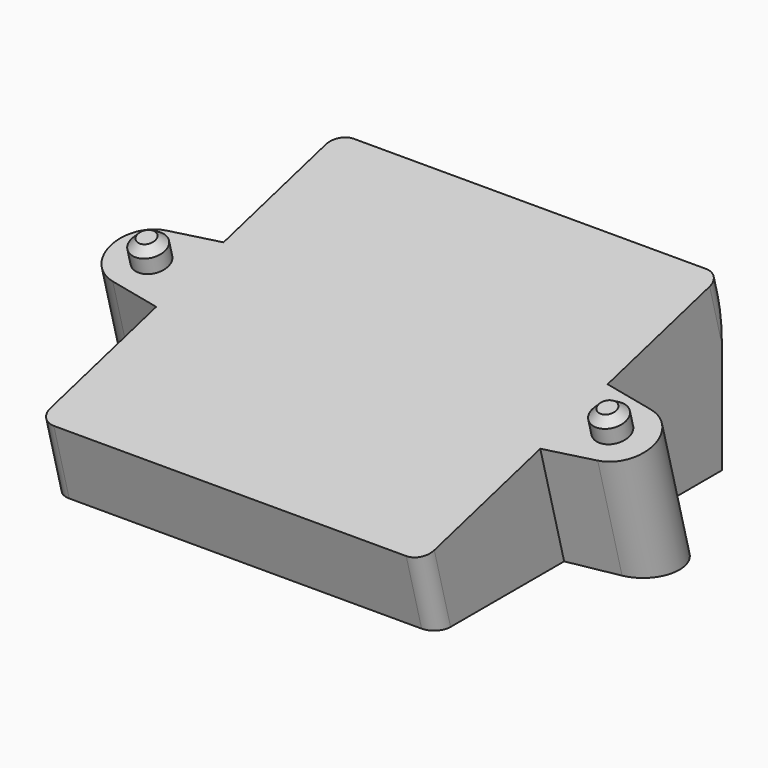
from build123d import *

# Parameters (mm, degrees)
F1_DEPTH = 34.25
F2_R     = 2.1
F3_DEPTH = 30
F5_DEPTH = 3
F6_SIZE  = 1


with BuildPart() as f1:
    # F0 (on Right) → F1 (new body, symmetric)
    with BuildSketch(Plane.YZ):
        Polygon((81.137769, 21.7408), (0, 0), (81.137769, 0), align=None)
    extrude(amount=F1_DEPTH, both=True)


with BuildPart() as f3:
    # F2 (on face) → F3 (new body)
    with BuildSketch(Plane(origin=(0, 0, 0), x_dir=(1, 0, 0), z_dir=(0, -0.258819, 0.965926))):
        with BuildLine():
            Line((-22.25, 35), (0, 35))
            Line((0, 35), (0, 84))
            Line((0, 84), (-22.25, 84))
            ThreePointArc((-22.25, 84), (-23.664214, 83.414214), (-24.25, 82))
            Line((-24.25, 82), (-24.25, 65.318283))
            Line((-24.25, 65.318283), (-30.615681, 64.16811))
            ThreePointArc((-30.615681, 64.16811), (-34.25, 59.818283), (-30.615681, 55.468456))
            Line((-30.615681, 55.468456), (-24.25, 54.318283))
            Line((-24.25, 54.318283), (-24.25, 37))
            ThreePointArc((-24.25, 37), (-23.664214, 35.585786), (-22.25, 35))
        make_face()
        with Locations((-29.1, 59.818283)):
            Circle(F2_R, mode=Mode.SUBTRACT)
        with BuildLine():
            Line((0, 84), (0, 35))
            Line((0, 35), (22.25, 35))
            ThreePointArc((22.25, 35), (23.664214, 35.585786), (24.25, 37))
            Line((24.25, 37), (24.25, 54.318283))
            Line((24.25, 54.318283), (30.615681, 55.468456))
            ThreePointArc((30.615681, 55.468456), (34.25, 59.818283), (30.615681, 64.16811))
            Line((30.615681, 64.16811), (24.25, 65.318283))
            Line((24.25, 65.318283), (24.25, 82))
            ThreePointArc((24.25, 82), (23.664214, 83.414214), (22.25, 84))
            Line((22.25, 84), (0, 84))
        make_face()
        with Locations((29.1, 59.818283)):
            Circle(F2_R, mode=Mode.SUBTRACT)
        with Locations((29.1, 59.818283)):
            Circle(F2_R)
        with Locations((-29.1, 59.818283)):
            Circle(F2_R)
    extrude(amount=-F3_DEPTH)

    # F4: intersect F1
    add(f1.part, mode=Mode.INTERSECT)

    # F2 (on face) → F5 (join)
    with BuildSketch(Plane(origin=(0, 0, 0), x_dir=(1, 0, 0), z_dir=(0, -0.258819, 0.965926))):
        with Locations((29.1, 59.818283)):
            Circle(F2_R)
        with Locations((-29.1, 59.818283)):
            Circle(F2_R)
    extrude(amount=F5_DEPTH)

    # F6
    f6_edges = [f3.edges().sort_by_distance(p)[0] for p in [
        (27, 57.003567, 18.379888),
        (-31.2, 57.003567, 18.379888),
    ]]
    chamfer(f6_edges, length=F6_SIZE)


solid = f3.part
